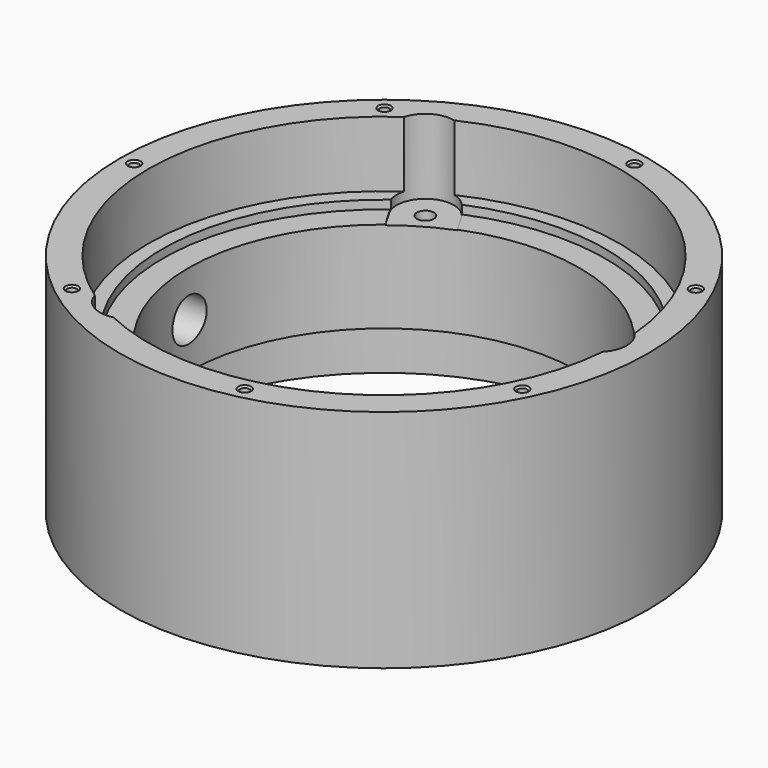
from build123d import *

# Parameters (mm, degrees)
F3_DEPTH       = 26
F3_DEPTH_BACK  = 0.2
F5_D           = 6
F9_D           = 3.3
F9_DEPTH       = 15
F9_CSINK_D     = 4.5
F9_CSINK_ANGLE = 90
F9_TIP         = 0.9914200214


with BuildPart() as f1:
    # F0 (on Front) → F1 (revolve)
    with BuildSketch(Plane.XZ):
        Polygon((77.5, 21), (77.5, 18), (82.5, 18), (82.5, 0), (92.5, 0), (92.5, 79), (82.5, 79), (82.5, 56), (77.5, 56), (77.5, 53), (68.5, 53), (68.5, 21), align=None)
    revolve(axis=Axis((0, 0, 27.8796814382), (0, 0, -1)))

    # F2 (on face) → F3 (cut, two sides)
    with BuildSketch(Plane.XY.offset(53)) as f3_sk:
        with BuildLine():
            Line((50, -10), (75, -10))
            ThreePointArc((75, -10), (85, 0), (75, 10))
            Line((75, 10), (50, 10))
            Line((50, 10), (50, -10))
        make_face()
        with BuildLine():
            Line((-16.3397459622, 48.3012701892), (-28.8397459622, 69.9519052838))
            ThreePointArc((-28.8397459622, 69.9519052838), (-42.5, 73.6121593217), (-46.1602540378, 59.9519052838))
            Line((-46.1602540378, 59.9519052838), (-33.6602540378, 38.3012701892))
            Line((-33.6602540378, 38.3012701892), (-16.3397459622, 48.3012701892))
        make_face()
        with BuildLine():
            Line((-33.6602540378, -38.3012701892), (-46.1602540378, -59.9519052838))
            ThreePointArc((-46.1602540378, -59.9519052838), (-42.5, -73.6121593217), (-28.8397459622, -69.9519052838))
            Line((-28.8397459622, -69.9519052838), (-16.3397459622, -48.3012701892))
            Line((-16.3397459622, -48.3012701892), (-33.6602540378, -38.3012701892))
        make_face()
    extrude(amount=F3_DEPTH, mode=Mode.SUBTRACT)
    extrude(f3_sk.sketch, amount=-F3_DEPTH_BACK, mode=Mode.SUBTRACT)

    # F5 (through all)
    with Locations(Plane.XY.offset(52.8)):
        with Locations((75, 0), (-37.5, 64.9519052838), (-37.5, -64.9519052838)):
            Hole(F5_D / 2)

    # F6 (on Front) → F7 (revolve, cut)
    with BuildSketch(Plane.XZ):
        Polygon((-95, 52), (-95, 37), (-65, 37), (-65, 44.5), (-90, 44.5), (-90, 52), align=None)
    revolve(axis=Axis((-80, 0, 37), (1, 0, 0)), mode=Mode.SUBTRACT)

    # F9
    with Locations(Plane.XY.offset(79)):
        with Locations((-87.5, 0), (-54.5553576626, 68.410254716), (19.4705817212, 85.3061923159), (78.8347759415, 37.9648271728), (78.8347759415, -37.9648271728), (19.4705817212, -85.3061923159), (-54.5553576626, -68.410254716)):
            CounterSinkHole(F9_D / 2, F9_CSINK_D / 2, depth=F9_DEPTH, counter_sink_angle=F9_CSINK_ANGLE)
            with Locations((0, 0, -(F9_DEPTH + F9_TIP / 2))):  # 118° drill point
                Cone(0, F9_D / 2, F9_TIP, mode=Mode.SUBTRACT)


solid = f1.part
